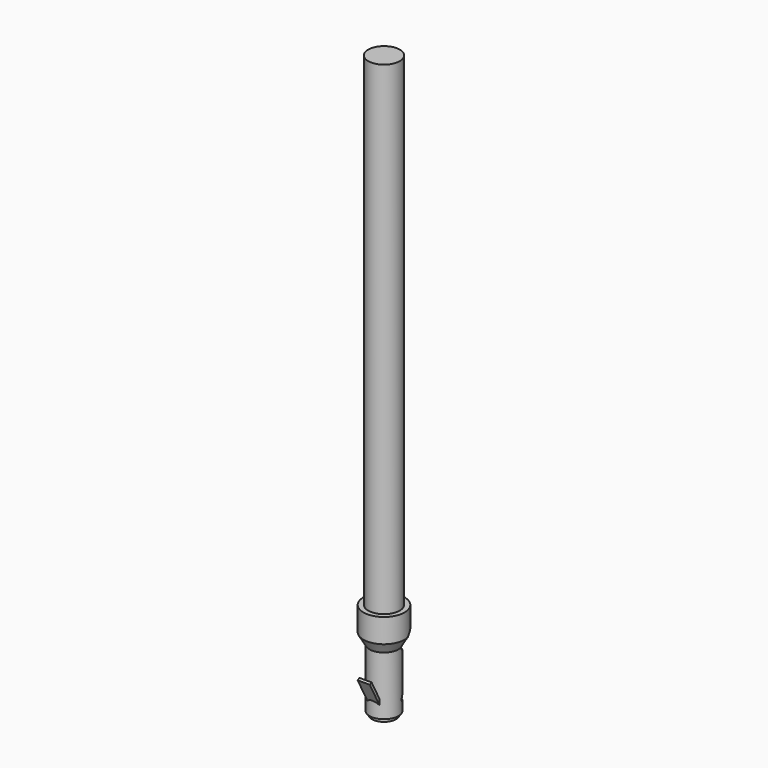
from build123d import *

# Parameters (mm, degrees)
F3_DEPTH      = 1.701
F3_DEPTH_BACK = 1.701
F5_DEPTH      = 0.5
F6_R          = 1
F7_DEPTH      = 8
F6_R_2        = 1.3
F8_DEPTH      = 40


with BuildPart() as f1:
    # F0 (on Right) → F1 (revolve)
    with BuildSketch(Plane.YZ):
        Polygon((0, 4.7), (0, -3), (1.2, -3), (1.2, 1.85), (1.7, 2.7160254038), (1.7, 4.7), align=None)
    revolve(axis=Axis((0, 0, 0.85), (0, 0, 1)))

    # F2 (on Right) → F3 (cut, two sides)
    with BuildSketch(Plane.YZ) as f3_sk:
        with BuildLine():
            Line((2.1899155108, 1.3396641007), (2.1899155108, 2.9980324907))
            Line((2.1899155108, 2.9980324907), (1.033622073, 2.9980324907))
            ThreePointArc((1.033622073, 2.9980324907), (0.204437878, 2.1688482957), (1.033622073, 1.3396641007))
            Line((1.033622073, 1.3396641007), (2.1899155108, 1.3396641007))
        make_face()
        with BuildLine():
            Line((0.7138770978, -2.3019161758), (1.8247701228, -2.3019161758))
            Line((1.8247701228, -2.3019161758), (1.8247701228, -1.1815773513))
            Line((1.8247701228, -1.1815773513), (0.5923490578, -1.7276335925))
            ThreePointArc((0.5923490578, -1.7276335925), (0.4203768635, -2.064025857), (0.7138770978, -2.3019161758))
        make_face()
    extrude(amount=F3_DEPTH, mode=Mode.SUBTRACT)
    extrude(f3_sk.sketch, amount=-F3_DEPTH_BACK, mode=Mode.SUBTRACT)

    # F4 (on Right) → F5 (join, symmetric)
    with BuildSketch(Plane.YZ):
        Polygon((-2.0963268337, -0.0985121634), (-0.7626931765, -2.6096533984), (-0.7626931765, -2.1618730389), (-1.9108351476, 0), align=None)
    extrude(amount=F5_DEPTH, both=True)


with BuildPart() as f7:
    # F6 (on face) → F7 (new body)
    with BuildSketch(Plane.XY.offset(4.7)):
        Circle(F6_R)
    extrude(amount=-F7_DEPTH)


with BuildPart() as f8:
    # F6 (on face) → F8 (new body)
    with BuildSketch(Plane.XY.offset(4.7)):
        Circle(F6_R_2)
        Circle(F6_R, mode=Mode.SUBTRACT)
        Circle(F6_R)
    extrude(amount=F8_DEPTH)


solid = Compound([f1.part, f7.part, f8.part])
